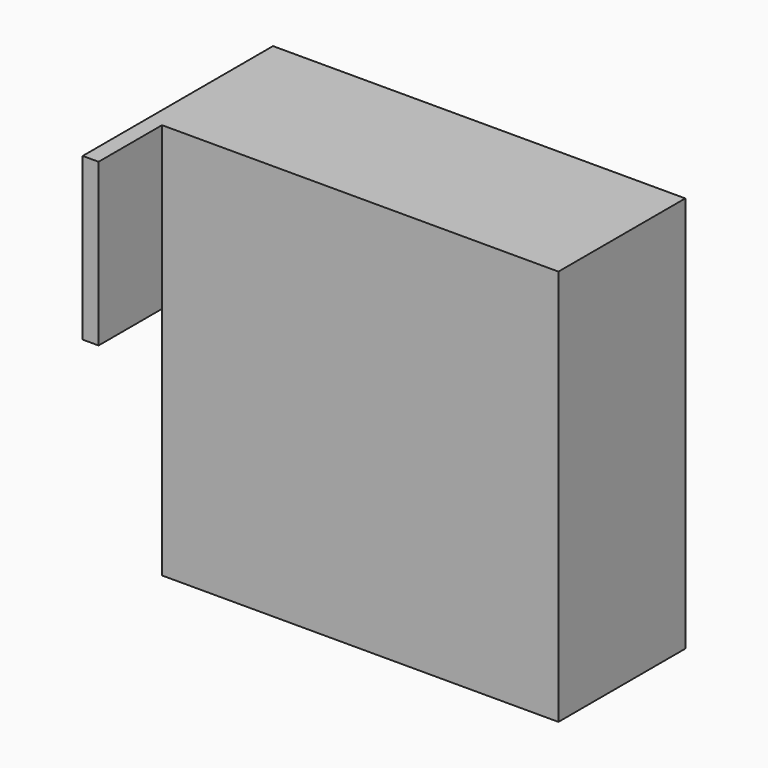
from build123d import *

# Parameters (mm, degrees)
F0_W      = 82.55
F0_H      = 76.2
F1_DEPTH  = 31.75
F2_W      = 79.375
F2_H      = 28.575
F3_DEPTH  = 101.6
F4_W      = 9.525
F4_H      = 76.2
F5_DEPTH  = 3.175
F7_DEPTH  = 3.175
F8_W      = 19.05
F8_H      = 79.375
F9_DEPTH  = 3.175
F10_W     = 19.05
F10_H     = 46.99
F11_DEPTH = 3.175


with BuildPart() as f1:
    # F0 (on Front) → F1 (new body)
    with BuildSketch(Plane.XZ):
        with Locations((12.593148, 4.577052)):
            Rectangle(F0_W, F0_H)
    extrude(amount=F1_DEPTH)

    # F2 (on face) → F3 (cut)
    with BuildSketch(Plane.XY.offset(42.677052)):
        with Locations((11.005648, -14.2875)):
            Rectangle(F2_W, F2_H)
    extrude(amount=-F3_DEPTH, mode=Mode.SUBTRACT)

    # F4 (on face) → F5 (join)
    with BuildSketch(Plane(origin=(0, 0, 0), x_dir=(-1, 0, 0), z_dir=(0, 1, 0))):
        with Locations((-49.105648, 4.577052)):
            Rectangle(F4_W, F4_H)
    extrude(amount=-F5_DEPTH)

    # F6 (on face) → F7 (join)
    with BuildSketch(Plane.XY.offset(42.677052)):
        Polygon((-28.681852, -31.75), (53.868148, -31.75), (53.868148, 0), (-28.681852, 0), (-28.681852, -28.575), align=None)
        Polygon((-28.681852, -31.75), (53.868148, -31.75), (53.868148, 0), (-28.681852, 0), (-28.681852, -28.575), align=None)
    extrude(amount=F7_DEPTH)

    # F8 (on face) → F9 (join)
    with BuildSketch(Plane(origin=(-28.681852, 0, 0), x_dir=(0, -1, 0), z_dir=(-1, 0, 0))):
        with Locations((38.1, 6.164552)):
            Rectangle(F8_W, F8_H)
    extrude(amount=-F9_DEPTH)

    # F10 (on face) → F11 (cut)
    with BuildSketch(Plane(origin=(-28.681852, 0, 0), x_dir=(0, -1, 0), z_dir=(-1, 0, 0))):
        with Locations((38.1, -10.027948)):
            Rectangle(F10_W, F10_H)
    extrude(amount=-F11_DEPTH, mode=Mode.SUBTRACT)


solid = f1.part
